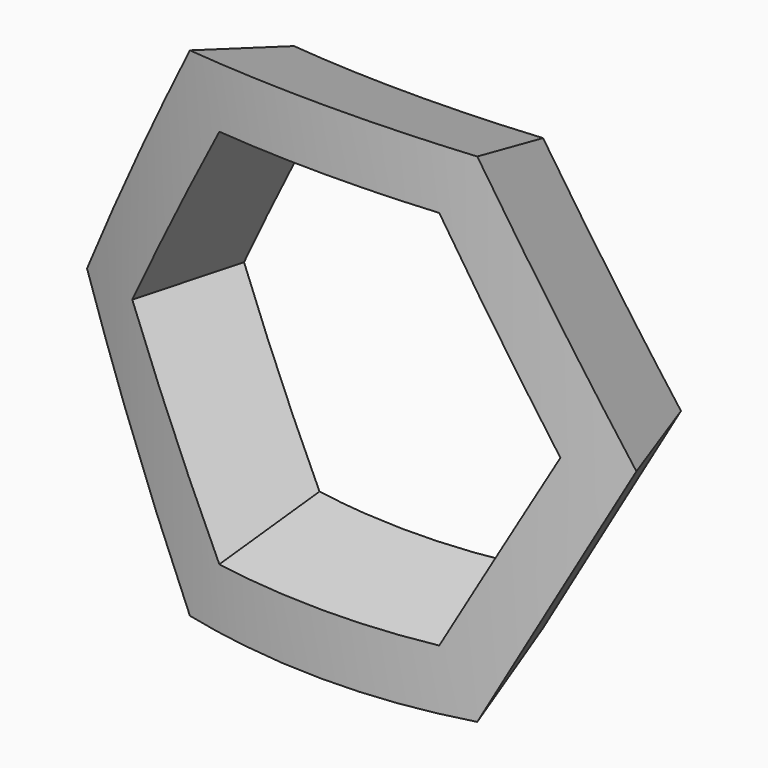
from build123d import *

# Parameters (mm, degrees)
F7_R     = 37.5
F7_R_2   = 32.5
F8_DEPTH = 25


with BuildPart() as f2:
    # F1 (on offset) → F2 section 0
    with BuildSketch(Plane.XZ.offset(40), mode=Mode.PRIVATE) as f2_s0:
        Polygon((-7.2168783649, -12.5), (7.2168783649, -12.5), (14.4337567297, 0), (7.2168783649, 12.5), (-7.2168783649, 12.5), (-14.4337567297, 0), align=None)
    loft([Vertex(0, 0, 0), f2_s0.sketch])

    # F4 (on offset) → F6 section 0
    with BuildSketch(Plane.XZ.offset(40)):
        Polygon((-5.4848275573, -9.5), (5.4848275573, -9.5), (10.9696551146, 0), (5.4848275573, 9.5), (-5.4848275573, 9.5), (-10.9696551146, 0), align=None)
    # F5 (on offset) → F6 section 1
    with BuildSketch(Plane.XZ.offset(0.1)):
        Polygon((0.0180421959, 0.03125), (-0.0180421959, 0.03125), (-0.0360843918, 0), (-0.0180421959, -0.03125), (0.0180421959, -0.03125), (0.0360843918, 0), align=None)
    loft(mode=Mode.SUBTRACT)

    # F7 (on Top) → F8 (intersect, symmetric)
    with BuildSketch(Plane.XY):
        Circle(F7_R)
        Circle(F7_R_2, mode=Mode.SUBTRACT)
    extrude(amount=F8_DEPTH, both=True, mode=Mode.INTERSECT)


solid = f2.part
